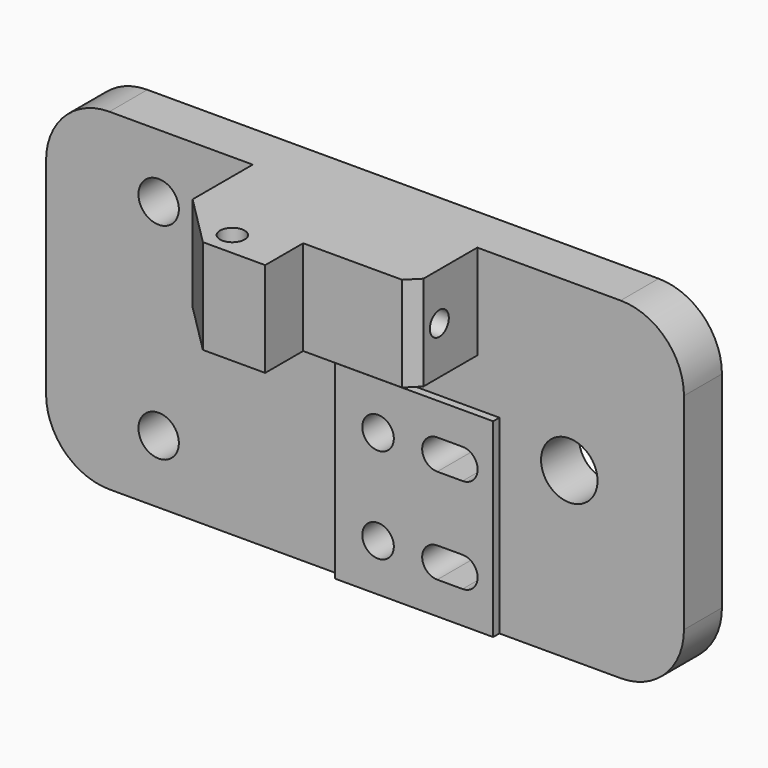
from build123d import *

# Parameters (mm, degrees)
F0_R     = 2.5527
F0_R_2   = 1.9939
F0_R_3   = 3.5687
F1_DEPTH = 5.9944
F2_W     = 19.9898
F2_H     = 24.003
F2_R     = 1.9939
F3_DEPTH = 6.985
F4_R     = 1.5494
F5_DEPTH = 11.9888
F7_D     = 2.9972


with BuildPart() as f1:
    # F0 (on Front) → F1 (new body)
    with BuildSketch(Plane.XZ):
        with BuildLine():
            ThreePointArc((40.2971, 13.0048), (37.9536613563, 18.6623613563), (32.2961, 21.0058))
            Line((32.2961, 21.0058), (-32.2961, 21.0058))
            ThreePointArc((-32.2961, 21.0058), (-37.9536613563, 18.6623613563), (-40.2971, 13.0048))
            Line((-40.2971, 13.0048), (-40.2971, -13.0048))
            ThreePointArc((-40.2971, -13.0048), (-37.9536613563, -18.6623613563), (-32.2961, -21.0058))
            Line((-32.2961, -21.0058), (32.2961, -21.0058))
            ThreePointArc((32.2961, -21.0058), (37.9536613563, -18.6623613563), (40.2971, -13.0048))
            Line((40.2971, -13.0048), (40.2971, 13.0048))
        make_face()
        with Locations((-26.0731, -13.0048)):
            Circle(F0_R, mode=Mode.SUBTRACT)
        with Locations((2.438410781, -15.0241)):
            Circle(F0_R_2, mode=Mode.SUBTRACT)
        with BuildLine():
            Line((13.1191, -16.9164), (9.9187, -16.9164))
            ThreePointArc((9.9187, -16.9164), (8.0137, -15.0114), (9.9187, -13.1064))
            Line((9.9187, -13.1064), (13.1191, -13.1064))
            ThreePointArc((13.1191, -13.1064), (15.0241, -15.0114), (13.1191, -16.9164))
        make_face(mode=Mode.SUBTRACT)
        with Locations((2.438410781, -3.0099)):
            Circle(F0_R_2, mode=Mode.SUBTRACT)
        with BuildLine():
            Line((13.1191, -4.9022), (9.9187, -4.9022))
            ThreePointArc((9.9187, -4.9022), (8.0137, -2.9972), (9.9187, -1.0922))
            Line((9.9187, -1.0922), (13.1191, -1.0922))
            ThreePointArc((13.1191, -1.0922), (15.0241, -2.9972), (13.1191, -4.9022))
        make_face(mode=Mode.SUBTRACT)
        with Locations((-26.0731, 13.0048)):
            Circle(F0_R, mode=Mode.SUBTRACT)
        with Locations((25.8064, 0)):
            Circle(F0_R_3, mode=Mode.SUBTRACT)
    extrude(amount=F1_DEPTH)

    # F2 (on Front) → F3 (join)
    with BuildSketch(Plane.XZ):
        with Locations((6.985, -9.0043)):
            Rectangle(F2_W, F2_H)
        with Locations((2.438410781, -15.0241)):
            Circle(F2_R, mode=Mode.SUBTRACT)
        with BuildLine():
            Line((13.1191, -16.9164), (9.9187, -16.9164))
            ThreePointArc((9.9187, -16.9164), (8.0137, -15.0114), (9.9187, -13.1064))
            Line((9.9187, -13.1064), (13.1191, -13.1064))
            ThreePointArc((13.1191, -13.1064), (15.0241, -15.0114), (13.1191, -16.9164))
        make_face(mode=Mode.SUBTRACT)
        with Locations((2.438410781, -3.0099)):
            Circle(F2_R, mode=Mode.SUBTRACT)
        with BuildLine():
            Line((13.1191, -4.9022), (9.9187, -4.9022))
            ThreePointArc((9.9187, -4.9022), (8.0137, -2.9972), (9.9187, -1.0922))
            Line((9.9187, -1.0922), (13.1191, -1.0922))
            ThreePointArc((13.1191, -1.0922), (15.0241, -2.9972), (13.1191, -4.9022))
        make_face(mode=Mode.SUBTRACT)
    extrude(amount=F3_DEPTH)

    # F4 (on face) → F5 (join)
    with BuildSketch(Plane.XY.offset(21.0058)):
        Polygon((14.1859, -5.9944), (-14.1859, -5.9944), (-14.1859, -15.494), (-7.6835, -21.9964), (0.1905, -21.9964), (0.1905, -16.002), (12.6873, -16.002), (14.1859, -14.5034), align=None)
        with Locations((-6.3627, -18.9992)):
            Circle(F4_R, mode=Mode.SUBTRACT)
    extrude(amount=-F5_DEPTH)

    # F7 (through all)
    with Locations(Plane.YZ.offset(14.1859)):
        with Locations((-11.9888, 15.0114)):
            Hole(F7_D / 2)


solid = f1.part
